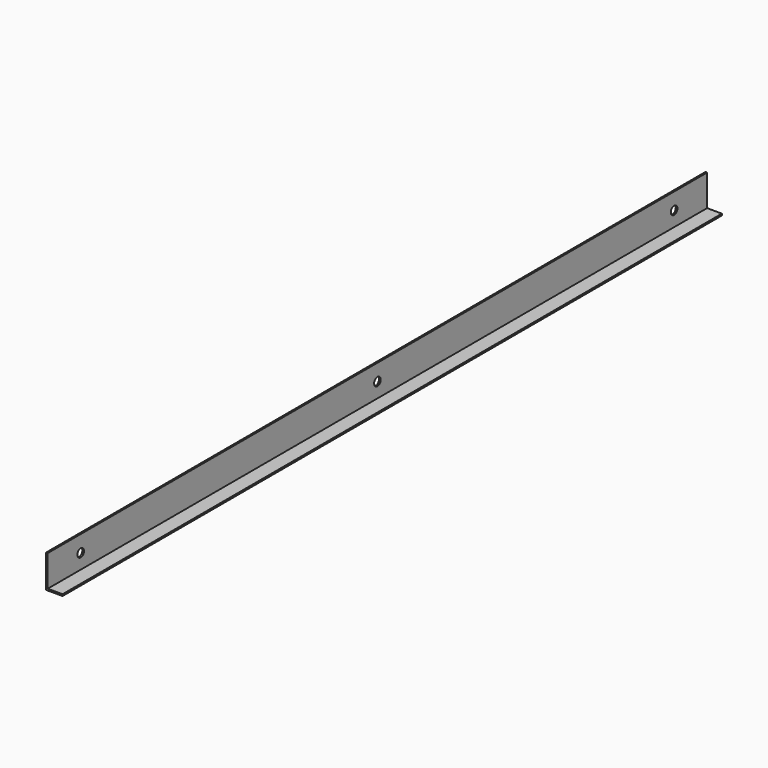
from build123d import *

# Parameters (mm, degrees)
F1_DEPTH = 1000
F2_R     = 5
F3_DEPTH = 25


with BuildPart() as f1:
    # F0 (on Front) → F1 (new body)
    with BuildSketch(Plane.XZ):
        Polygon((10, 1), (-8, 1), (-8, 39), (-10, 39), (-10, 1), (-10, -1), (-8, -1), (10, -1), align=None)
    extrude(amount=F1_DEPTH)

    # F2 (on face) → F3 (cut)
    with BuildSketch(Plane(origin=(-10, 0, 0), x_dir=(0, -1, 0), z_dir=(-1, 0, 0))):
        with Locations((50, 19)):
            Circle(F2_R)
        with Locations((950, 19)):
            Circle(F2_R)
        with Locations((500, 19)):
            Circle(F2_R)
        with Locations((500, 19)):
            Circle(F2_R)
    extrude(amount=-F3_DEPTH, mode=Mode.SUBTRACT)


solid = f1.part
